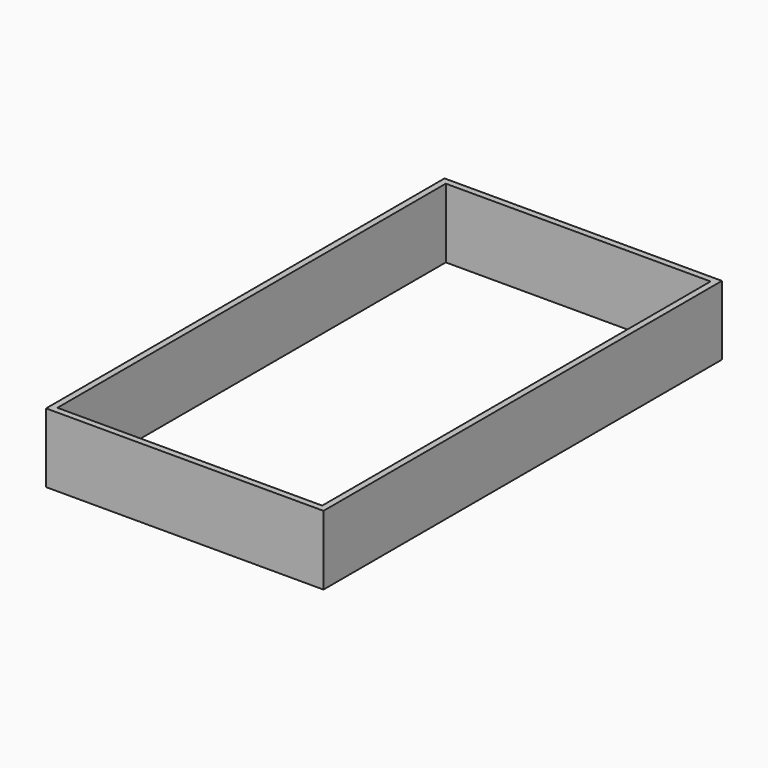
from build123d import *

# Parameters (mm, degrees)
F0_W     = 88
F0_H     = 158
F1_DEPTH = 22
F2_T     = -2


with BuildPart() as f1:
    # F0 (on Top) → F1 (new body)
    with BuildSketch(Plane.XY):
        Rectangle(F0_W, F0_H)
    extrude(amount=F1_DEPTH)

    # F2
    f2_openings = [f1.faces().sort_by_distance(p)[0] for p in [
        (0, 0, 22),
        (0, 0, 0),
    ]]
    offset(amount=F2_T, openings=f2_openings)


solid = f1.part
